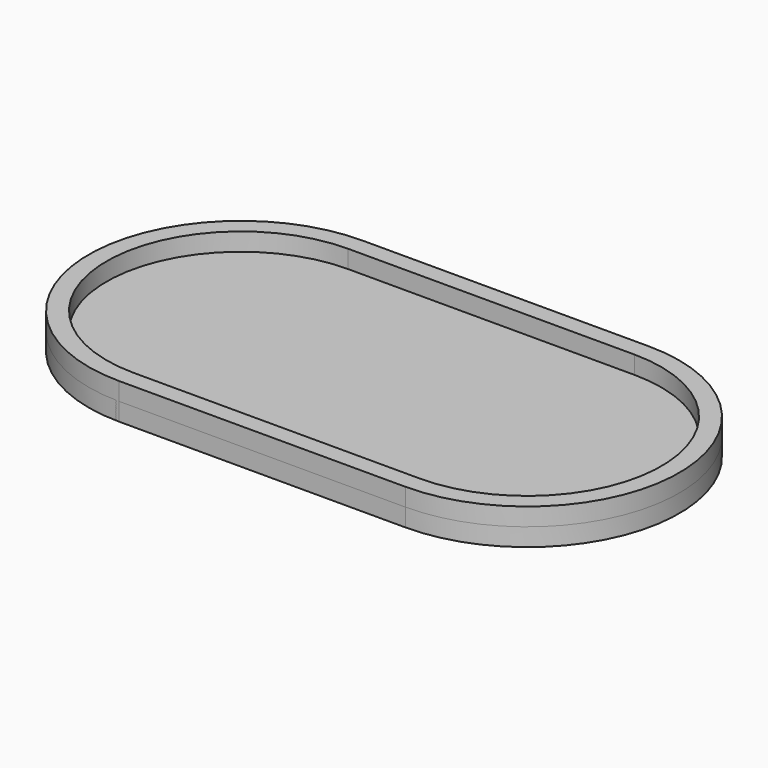
from build123d import *

# Parameters (mm, degrees)
PAD_DEPTH    = 10
PAD001_DEPTH = 5


with BuildPart() as obj1:
    # Sketch → Pad (new body)
    with BuildSketch(Plane.XY):
        with BuildLine():
            ThreePointArc((-39.999965, 42.5), (-82.499965, -1e-06), (-39.999962, -42.5))
            Line((-39.999962, -42.5), (39.999965, -42.5))
            ThreePointArc((39.999965, -42.5), (82.499965, -3.5e-05), (40.000035, 42.5))
            Line((-39.999965, 42.5), (40.000035, 42.5))
        make_face()
        with BuildLine():
            ThreePointArc((-39.999962, 37.5), (-77.499965, 1e-06), (-39.999965, -37.5))
            Line((39.999962, -37.5), (-39.999965, -37.5))
            ThreePointArc((39.999962, -37.5), (77.499965, -1e-06), (39.999965, 37.5))
            Line((-39.999962, 37.5), (39.999965, 37.5))
        make_face(mode=Mode.SUBTRACT)
    extrude(amount=PAD_DEPTH)


with BuildPart() as obj2:
    # Sketch001 → Pad001 (new body)
    with BuildSketch(Plane.XY):
        with BuildLine():
            ThreePointArc((-40, 42.5), (-82.5, -3.3e-05), (-39.999935, -42.5))
            Line((-39.999935, -42.5), (40, -42.5))
            ThreePointArc((40, -42.5), (82.5, 0), (40, 42.5))
            Line((-40, 42.5), (40, 42.5))
        make_face()
    extrude(amount=PAD001_DEPTH)


solid = Compound([obj1.part, obj2.part])
